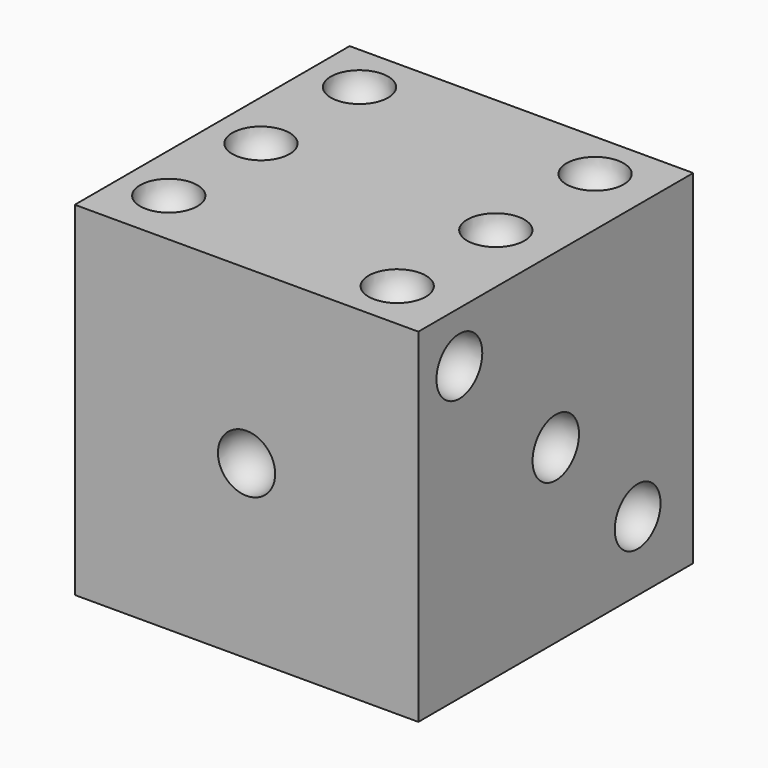
from build123d import *

# Parameters (mm, degrees)
F0_W     = 76.2
F0_H     = 76.2
F1_DEPTH = 76.2


with BuildPart() as f1:
    # F0 (on Front) → F1 (new body)
    with BuildSketch(Plane.XZ):
        with Locations((-38.1, 38.1)):
            Rectangle(F0_W, F0_H)
    extrude(amount=F1_DEPTH)

    # F2 (on face) → F3 (revolve, cut)
    with BuildSketch(Plane.XZ.offset(76.2)):
        with BuildLine():
            ThreePointArc((-38.1, 31.75), (-31.75, 38.1), (-38.1, 44.45))
            Line((-38.1, 44.45), (-38.1, 31.75))
        make_face()
    revolve(axis=Axis((-38.1, -76.2, 38.1), (0, 0, -1)), mode=Mode.SUBTRACT)

    # F4 (on face) → F5 (revolve, cut)
    with BuildSketch(Plane(origin=(0, 0, 0), x_dir=(-1, 0, 0), z_dir=(0, 1, 0))):
        with BuildLine():
            Line((11.614696, 70.935304), (11.614696, 58.235304))
            ThreePointArc((11.614696, 58.235304), (17.964696, 64.585304), (11.614696, 70.935304))
        make_face()
    revolve(axis=Axis((-11.614696, 0, 38.1), (0, 0, -1)), mode=Mode.SUBTRACT)

    # F6 (on face) → F7 (revolve, cut)
    with BuildSketch(Plane(origin=(0, 0, 0), x_dir=(-1, 0, 0), z_dir=(0, 1, 0))):
        with BuildLine():
            Line((60.263439, 22.286561), (60.263439, 9.586561))
            ThreePointArc((60.263439, 9.586561), (66.613439, 15.936561), (60.263439, 22.286561))
        make_face()
    revolve(axis=Axis((-60.263439, 0, 38.1), (0, 0, -1)), mode=Mode.SUBTRACT)

    # F8 (on face) → F9 (revolve, cut)
    with BuildSketch(Plane.YZ):
        with BuildLine():
            Line((-64.828049, 71.178049), (-64.828049, 58.478049))
            ThreePointArc((-64.828049, 58.478049), (-58.478049, 64.828049), (-64.828049, 71.178049))
        make_face()
    revolve(axis=Axis((0, -64.828049, 38.1), (0, 0, -1)), mode=Mode.SUBTRACT)

    # F10 (on face) → F11 (revolve, cut)
    with BuildSketch(Plane.YZ):
        with BuildLine():
            Line((-38.1, 44.533285), (-38.1, 31.666715))
            ThreePointArc((-38.1, 31.666715), (-31.666715, 38.1), (-38.1, 44.533285))
        make_face()
    revolve(axis=Axis((0, -38.1, 38.1), (0, 0, -1)), mode=Mode.SUBTRACT)

    # F12 (on face) → F13 (revolve, cut)
    with BuildSketch(Plane.YZ):
        with BuildLine():
            Line((-15.403587, 21.753587), (-15.403587, 9.053587))
            ThreePointArc((-15.403587, 9.053587), (-9.053587, 15.403587), (-15.403587, 21.753587))
        make_face()
    revolve(axis=Axis((0, -15.403587, 38.1), (0, 0, -1)), mode=Mode.SUBTRACT)

    # F14 (on face) → F15 (revolve, cut)
    with BuildSketch(Plane(origin=(-76.2, 0, 0), x_dir=(0, -1, 0), z_dir=(-1, 0, 0))):
        with BuildLine():
            Line((12.168781, 70.381219), (12.168781, 57.681219))
            ThreePointArc((12.168781, 57.681219), (18.518781, 64.031219), (12.168781, 70.381219))
        make_face()
    revolve(axis=Axis((-76.2, -12.168781, 38.1), (0, 0, -1)), mode=Mode.SUBTRACT)

    # F16 (on face) → F17 (revolve, cut)
    with BuildSketch(Plane(origin=(-76.2, 0, 0), x_dir=(0, -1, 0), z_dir=(-1, 0, 0))):
        with BuildLine():
            ThreePointArc((11.968254, 6.948062), (18.318254, 13.298062), (11.968254, 19.648062))
            Line((11.968254, 19.648062), (11.968254, 6.948062))
        make_face()
    revolve(axis=Axis((-76.2, -11.968254, 38.1), (0, 0, -1)), mode=Mode.SUBTRACT)

    # F18 (on face) → F19 (revolve, cut)
    with BuildSketch(Plane(origin=(-76.2, 0, 0), x_dir=(0, -1, 0), z_dir=(-1, 0, 0))):
        with BuildLine():
            ThreePointArc((68.185982, 63.609056), (61.835982, 69.959056), (55.485982, 63.609056))
            Line((55.485982, 63.609056), (68.185982, 63.609056))
        make_face()
    revolve(axis=Axis((-76.2, -38.1, 63.609056), (0, -1, 0)), mode=Mode.SUBTRACT)

    # F20 (on face) → F21 (revolve, cut)
    with BuildSketch(Plane(origin=(-76.2, 0, 0), x_dir=(0, -1, 0), z_dir=(-1, 0, 0))):
        with BuildLine():
            ThreePointArc((61.392717, 5.618255), (67.742717, 11.968255), (61.392717, 18.318255))
            Line((61.392717, 18.318255), (61.392717, 5.618255))
        make_face()
    revolve(axis=Axis((-76.2, -61.392717, 38.1), (0, 0, -1)), mode=Mode.SUBTRACT)

    # F22 (on face) → F23 (revolve, cut)
    with BuildSketch(Plane(origin=(0, 0, 0), x_dir=(1, 0, 0), z_dir=(0, 0, -1))):
        with BuildLine():
            ThreePointArc((-61.113639, 61.113639), (-61.113639, 70.093895), (-70.093895, 70.093895))
            Line((-70.093895, 70.093895), (-61.113639, 61.113639))
        make_face()
    revolve(axis=Axis((-38.1, -38.1, 0), (0.707107, 0.707107, 0)), mode=Mode.SUBTRACT)

    # F24 (on face) → F25 (revolve, cut)
    with BuildSketch(Plane(origin=(0, 0, 0), x_dir=(1, 0, 0), z_dir=(0, 0, -1))):
        with BuildLine():
            ThreePointArc((-33.609872, 33.609872), (-33.609872, 42.590128), (-42.590128, 42.590128))
            Line((-42.590128, 42.590128), (-33.609872, 33.609872))
        make_face()
    revolve(axis=Axis((-38.1, -38.1, 0), (0.707107, 0.707107, 0)), mode=Mode.SUBTRACT)

    # F26 (on face) → F27 (revolve, cut)
    with BuildSketch(Plane(origin=(0, 0, 0), x_dir=(1, 0, 0), z_dir=(0, 0, -1))):
        with BuildLine():
            ThreePointArc((-6.369955, 6.369955), (-6.369955, 15.350211), (-15.350211, 15.350211))
            Line((-15.350211, 15.350211), (-6.369955, 6.369955))
        make_face()
    revolve(axis=Axis((-38.1, -38.1, 0), (0.707107, 0.707107, 0)), mode=Mode.SUBTRACT)

    # F28 (on face) → F29 (revolve, cut)
    with BuildSketch(Plane(origin=(0, 0, 0), x_dir=(1, 0, 0), z_dir=(0, 0, -1))):
        with BuildLine():
            ThreePointArc((-68.742981, 7.457019), (-59.762725, 7.457019), (-59.762725, 16.437275))
            Line((-59.762725, 16.437275), (-68.742981, 7.457019))
        make_face()
    revolve(axis=Axis((-38.1, -38.1, 0), (-0.707107, 0.707107, 0)), mode=Mode.SUBTRACT)

    # F30 (on face) → F31 (revolve, cut)
    with BuildSketch(Plane(origin=(0, 0, 0), x_dir=(1, 0, 0), z_dir=(0, 0, -1))):
        with BuildLine():
            ThreePointArc((-15.883188, 60.316812), (-6.902931, 60.316812), (-6.902931, 69.297069))
            Line((-6.902931, 69.297069), (-15.883188, 60.316812))
        make_face()
    revolve(axis=Axis((-38.1, -38.1, 0), (-0.707107, 0.707107, 0)), mode=Mode.SUBTRACT)

    # F32 (on face) → F33 (revolve, cut)
    with BuildSketch(Plane.XY.offset(76.2)):
        with BuildLine():
            ThreePointArc((-60.760081, -15.439919), (-60.760081, -6.459663), (-69.740337, -6.459663))
            Line((-69.740337, -6.459663), (-60.760081, -15.439919))
        make_face()
    revolve(axis=Axis((-38.1, -38.1, 76.2), (0.707107, -0.707107, 0)), mode=Mode.SUBTRACT)

    # F34 (on face) → F35 (revolve, cut)
    with BuildSketch(Plane.XY.offset(76.2)):
        with BuildLine():
            ThreePointArc((-65.382138, -44.45), (-59.032138, -38.1), (-65.382138, -31.75))
            Line((-65.382138, -31.75), (-65.382138, -44.45))
        make_face()
    revolve(axis=Axis((-65.382138, -38.1, 76.2), (0, -1, 0)), mode=Mode.SUBTRACT)

    # F36 (on face) → F37 (revolve, cut)
    with BuildSketch(Plane.XY.offset(76.2)):
        with BuildLine():
            Line((-65.60377, -57.037424), (-65.60377, -69.737424))
            ThreePointArc((-65.60377, -69.737424), (-59.25377, -63.387424), (-65.60377, -57.037424))
        make_face()
    revolve(axis=Axis((-65.60377, -38.1, 76.2), (0, 1, 0)), mode=Mode.SUBTRACT)

    # F38 (on face) → F39 (revolve, cut)
    with BuildSketch(Plane.XY.offset(76.2)):
        with BuildLine():
            ThreePointArc((-6.726426, -10.860083), (-13.076426, -4.510083), (-19.426426, -10.860083))
            Line((-19.426426, -10.860083), (-6.726426, -10.860083))
        make_face()
    revolve(axis=Axis((-38.1, -10.860083, 76.2), (1, 0, 0)), mode=Mode.SUBTRACT)

    # F40 (on face) → F41 (revolve, cut)
    with BuildSketch(Plane.XY.offset(76.2)):
        with BuildLine():
            ThreePointArc((-13.298061, -44.45), (-6.948061, -38.1), (-13.298061, -31.75))
            Line((-13.298061, -31.75), (-13.298061, -44.45))
        make_face()
    revolve(axis=Axis((-13.298061, -38.1, 76.2), (0, -1, 0)), mode=Mode.SUBTRACT)

    # F42 (on face) → F43 (revolve, cut)
    with BuildSketch(Plane.XY.offset(76.2)):
        with BuildLine():
            ThreePointArc((-13.519695, -71.510498), (-7.169695, -65.160498), (-13.519695, -58.810498))
            Line((-13.519695, -58.810498), (-13.519695, -71.510498))
        make_face()
    revolve(axis=Axis((-13.519695, -38.1, 76.2), (0, -1, 0)), mode=Mode.SUBTRACT)


solid = f1.part
